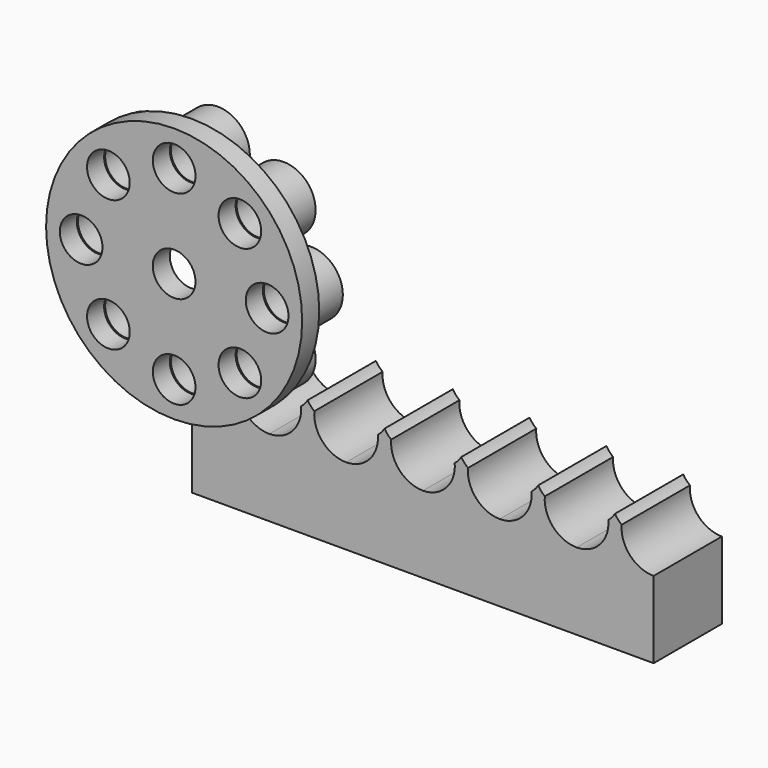
from build123d import *

# Parameters (mm, degrees)
F0_R     = 38.1
F0_R_2   = 6.35
F1_DEPTH = 6.35
F3_R     = 9.525
F3_R_2   = 6.35
F4_DEPTH = 9.525
F6_DEPTH = 25.4


with BuildPart() as f1:
    # F0 (on Front) → F1 (new body)
    with BuildSketch(Plane.XZ):
        Circle(F0_R)
        with Locations((-19.5624913465, -19.5624913465)):
            Circle(F0_R_2, mode=Mode.SUBTRACT)
        with Locations((0, -27.665540576)):
            Circle(F0_R_2, mode=Mode.SUBTRACT)
        with Locations((19.5624913465, -19.5624913465)):
            Circle(F0_R_2, mode=Mode.SUBTRACT)
        with Locations((-27.665540576, 0)):
            Circle(F0_R_2, mode=Mode.SUBTRACT)
        with Locations((-19.5624913465, 19.5624913465)):
            Circle(F0_R_2, mode=Mode.SUBTRACT)
        Circle(F0_R_2, mode=Mode.SUBTRACT)
        with Locations((27.665540576, 0)):
            Circle(F0_R_2, mode=Mode.SUBTRACT)
        with Locations((0, 27.665540576)):
            Circle(F0_R_2, mode=Mode.SUBTRACT)
        with Locations((19.5624913465, 19.5624913465)):
            Circle(F0_R_2, mode=Mode.SUBTRACT)
    extrude(amount=F1_DEPTH)


with BuildPart() as f4:
    # F3 (on offset) → F4 (new body)
    with BuildSketch(Plane.XZ.offset(-0.381)):
        with Locations((0, -27.665540576)):
            Circle(F3_R)
        with Locations((0, -27.665540576)):
            Circle(F3_R_2, mode=Mode.SUBTRACT)
    extrude(amount=-F4_DEPTH)


with BuildPart() as f4b:
    # F3 (on offset) → F4, piece 2 (new body)
    with BuildSketch(Plane.XZ.offset(-0.381)):
        with Locations((19.5624913465, -19.5624913465)):
            Circle(F3_R)
        with Locations((19.5624913465, -19.5624913465)):
            Circle(F3_R_2, mode=Mode.SUBTRACT)
    extrude(amount=-F4_DEPTH)


with BuildPart() as f4c:
    # F3 (on offset) → F4, piece 3 (new body)
    with BuildSketch(Plane.XZ.offset(-0.381)):
        with Locations((27.665540576, 0)):
            Circle(F3_R)
        with Locations((27.665540576, 0)):
            Circle(F3_R_2, mode=Mode.SUBTRACT)
    extrude(amount=-F4_DEPTH)


with BuildPart() as f4d:
    # F3 (on offset) → F4, piece 4 (new body)
    with BuildSketch(Plane.XZ.offset(-0.381)):
        with Locations((19.5624913465, 19.5624913465)):
            Circle(F3_R)
        with Locations((19.5624913465, 19.5624913465)):
            Circle(F3_R_2, mode=Mode.SUBTRACT)
    extrude(amount=-F4_DEPTH)


with BuildPart() as f4e:
    # F3 (on offset) → F4, piece 5 (new body)
    with BuildSketch(Plane.XZ.offset(-0.381)):
        with Locations((0, 27.665540576)):
            Circle(F3_R)
        with Locations((0, 27.665540576)):
            Circle(F3_R_2, mode=Mode.SUBTRACT)
    extrude(amount=-F4_DEPTH)


with BuildPart() as f4f:
    # F3 (on offset) → F4, piece 6 (new body)
    with BuildSketch(Plane.XZ.offset(-0.381)):
        with Locations((-19.5624913465, 19.5624913465)):
            Circle(F3_R)
        with Locations((-19.5624913465, 19.5624913465)):
            Circle(F3_R_2, mode=Mode.SUBTRACT)
    extrude(amount=-F4_DEPTH)


with BuildPart() as f4g:
    # F3 (on offset) → F4, piece 7 (new body)
    with BuildSketch(Plane.XZ.offset(-0.381)):
        with Locations((-27.665540576, 0)):
            Circle(F3_R)
        with Locations((-27.665540576, 0)):
            Circle(F3_R_2, mode=Mode.SUBTRACT)
    extrude(amount=-F4_DEPTH)


with BuildPart() as f4h:
    # F3 (on offset) → F4, piece 8 (new body)
    with BuildSketch(Plane.XZ.offset(-0.381)):
        with Locations((-19.5624913465, -19.5624913465)):
            Circle(F3_R)
        with Locations((-19.5624913465, -19.5624913465)):
            Circle(F3_R_2, mode=Mode.SUBTRACT)
    extrude(amount=-F4_DEPTH)


with BuildPart() as f6:
    # F5 (on offset) → F6 (new body)
    with BuildSketch(Plane.XZ.offset(-0.381)):
        with BuildLine():
            ThreePointArc((22.9213126466, -37.2157437633), (15.9468871662, -34.1237546608), (13.4621063405, -26.9106504995))
            ThreePointArc((13.4621063405, -26.9106504995), (12.3738858329, -25.8796842874), (11.4913126467, -24.6679996029))
            ThreePointArc((11.4913126467, -24.6679996029), (10.6087394605, -25.8796842874), (9.5205189529, -26.9106504995))
            ThreePointArc((9.5205189529, -26.9106504995), (7.0149712168, -34.1463058847), (0, -37.215940576))
            Line((0, -37.215940576), (0, -60.0881949067))
            Line((0, -60.0881949067), (137.2826252934, -60.0881949067))
            Line((137.2826252934, -60.0881949067), (137.2826252934, -37.215940576))
            ThreePointArc((137.2826252934, -37.215940576), (130.2676540765, -34.1463058847), (127.7621063405, -26.9106504995))
            ThreePointArc((127.7621063405, -26.9106504995), (126.6738858329, -25.8796842874), (125.7913126467, -24.6679996029))
            ThreePointArc((125.7913126467, -24.6679996029), (124.9087394605, -25.8796842874), (123.8205189529, -26.9106504995))
            ThreePointArc((123.8205189529, -26.9106504995), (121.3357381272, -34.1237546608), (114.3613126466, -37.2157437633))
            ThreePointArc((114.3613126466, -37.2157437633), (107.3868871662, -34.1237546608), (104.9021063405, -26.9106504995))
            ThreePointArc((104.9021063405, -26.9106504995), (103.8138858329, -25.8796842874), (102.9313126467, -24.6679996029))
            ThreePointArc((102.9313126467, -24.6679996029), (102.0487394605, -25.8796842874), (100.9605189529, -26.9106504995))
            ThreePointArc((100.9605189529, -26.9106504995), (98.4757381272, -34.1237546608), (91.5013126466, -37.2157437633))
            ThreePointArc((91.5013126466, -37.2157437633), (84.5268871662, -34.1237546608), (82.0421063405, -26.9106504995))
            ThreePointArc((82.0421063405, -26.9106504995), (80.9538858329, -25.8796842874), (80.0713126467, -24.6679996029))
            ThreePointArc((80.0713126467, -24.6679996029), (79.1887394605, -25.8796842874), (78.1005189529, -26.9106504995))
            ThreePointArc((78.1005189529, -26.9106504995), (75.6157381272, -34.1237546608), (68.6413126466, -37.2157437633))
            ThreePointArc((68.6413126466, -37.2157437633), (61.6668871662, -34.1237546608), (59.1821063405, -26.9106504995))
            ThreePointArc((59.1821063405, -26.9106504995), (58.0938858329, -25.8796842874), (57.2113126467, -24.6679996029))
            ThreePointArc((57.2113126467, -24.6679996029), (56.3287394605, -25.8796842874), (55.2405189529, -26.9106504995))
            ThreePointArc((55.2405189529, -26.9106504995), (52.7557381272, -34.1237546608), (45.7813126466, -37.2157437633))
            ThreePointArc((45.7813126466, -37.2157437633), (38.8068871662, -34.1237546608), (36.3221063405, -26.9106504995))
            ThreePointArc((36.3221063405, -26.9106504995), (35.2338858329, -25.8796842874), (34.3513126467, -24.6679996029))
            ThreePointArc((34.3513126467, -24.6679996029), (33.4687394605, -25.8796842874), (32.3805189529, -26.9106504995))
            ThreePointArc((32.3805189529, -26.9106504995), (29.8957381272, -34.1237546608), (22.9213126466, -37.2157437633))
        make_face()
    extrude(amount=-F6_DEPTH)


solid = Compound([f1.part, f4.part, f4b.part, f4c.part, f4d.part, f4e.part, f4f.part, f4g.part, f4h.part, f6.part])
